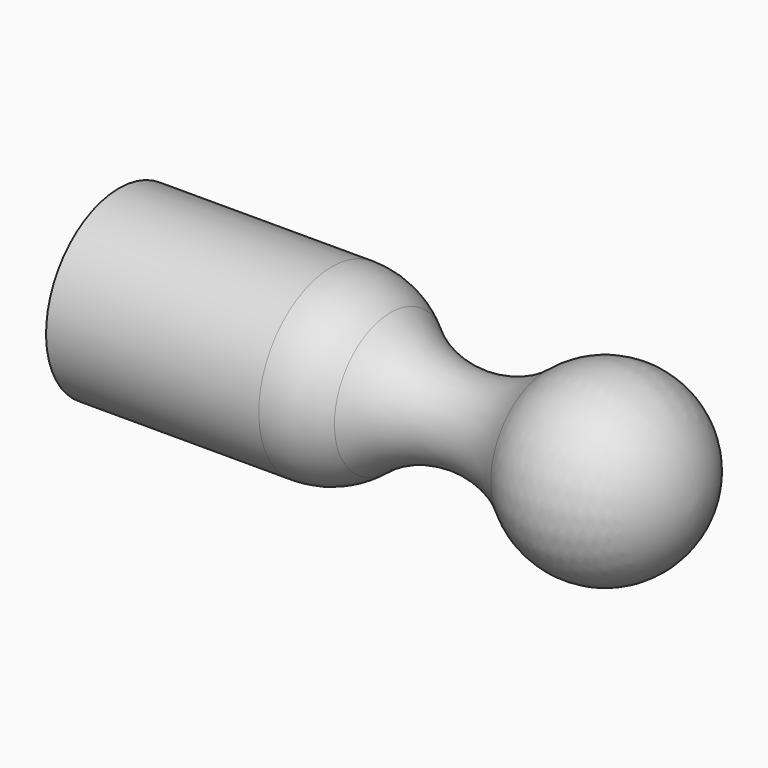
from build123d import *


with BuildPart() as f1:
    # F0 (on Front) → F1 (revolve)
    with BuildSketch(Plane.XZ):
        with BuildLine():
            Line((-95, 0), (0, 0))
            ThreePointArc((0, 0), (-8.661343, 13.594905), (-24.642857, 11.489791))
            ThreePointArc((-24.642857, 11.489791), (-37.5, 6.809513), (-50.357143, 11.489791))
            ThreePointArc((-50.357143, 11.489791), (-54.869058, 14.095156), (-60, 15))
            Line((-60, 15), (-95, 15))
            Line((-95, 15), (-95, 0))
        make_face()
    revolve(axis=Axis((-47.5, 0, 0), (-1, 0, 0)))


solid = f1.part
